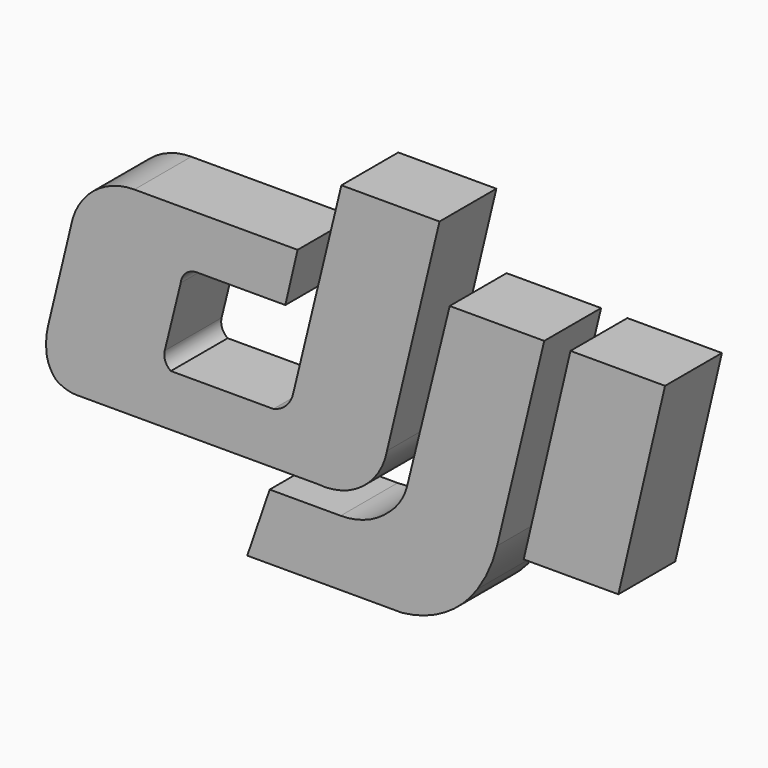
from build123d import *

# Parameters (mm, degrees)
F3_DEPTH = 10


with BuildPart() as f3:
    # F0 (on Front) + F1 (on Front) + F2 (on Front) → F3 (new body)
    with BuildSketch(Plane.XZ):
        with BuildLine():
            Line((4.375312, -5.69908), (11.761681, 25.106253))
            Line((11.761681, 25.106253), (-2.03862, 25.106253))
            Line((-2.03862, 25.106253), (-8.839173, -2.970295))
            ThreePointArc((-8.839173, -2.970295), (-9.83461, -4.728845), (-11.607188, -5.69908))
            Line((-11.607188, -5.69908), (-26.029678, -5.697462))
            ThreePointArc((-26.029678, -5.697462), (-26.809609, -4.71047), (-26.887318, -3.454919))
            Line((-26.887318, -3.454919), (-24.636621, 5.67686))
            ThreePointArc((-24.636621, 5.67686), (-23.886092, 7.126274), (-22.361021, 7.707871))
            Line((-22.361021, 7.707871), (-9.922181, 7.707871))
            Line((-9.922181, 7.707871), (-8.195885, 15.110663))
            Line((-8.195885, 15.110663), (-31.154441, 15.110663))
            ThreePointArc((-31.154441, 15.110663), (-36.552868, 13.332669), (-39.838158, 8.694656))
            Line((-39.838158, 8.694656), (-43.298054, -5.710491))
            ThreePointArc((-43.298054, -5.710491), (-43.552807, -7.355542), (-43.535294, -9.020108))
            ThreePointArc((-43.535294, -9.020108), (-43.171616, -10.497194), (-42.390778, -11.802695))
            ThreePointArc((-42.390778, -11.802695), (-42.118861, -12.072363), (-41.798072, -12.281538))
            ThreePointArc((-41.798072, -12.281538), (-40.59194, -12.800936), (-39.290771, -12.978389))
            Line((-39.290771, -12.978389), (-5.366716, -12.978389))
            ThreePointArc((-5.366716, -12.978389), (0.914086, -11.225478), (4.375312, -5.69908))
        make_face()
    with BuildSketch(Plane.XZ):
        with BuildLine():
            Line((19.864323, -12.418515), (26.496269, 15.116209))
            Line((26.496269, 15.116209), (13.198407, 15.116209))
            Line((13.198407, 15.116209), (7.221147, -9.090803))
            ThreePointArc((7.221147, -9.090803), (6.300868, -11.283704), (4.75455, -13.090533))
            ThreePointArc((4.75455, -13.090533), (1.574157, -15.133876), (-2.137791, -15.849132))
            Line((-2.137791, -15.849132), (-12.122249, -15.849132))
            Line((-12.122249, -15.849132), (-15.279931, -25.059035))
            Line((-15.279931, -25.059035), (6.481617, -25.059035))
            ThreePointArc((6.481617, -25.059035), (12.527635, -23.041678), (17.132977, -18.635446))
            ThreePointArc((17.132977, -18.635446), (18.775406, -15.648571), (19.864323, -12.418515))
        make_face()
    with BuildSketch(Plane.XZ):
        Polygon((36.923028, -12.876659), (43.488429, 15.07865), (30.183952, 15.07865), (23.605902, -12.876659), align=None)
    extrude(amount=F3_DEPTH)


solid = f3.part
